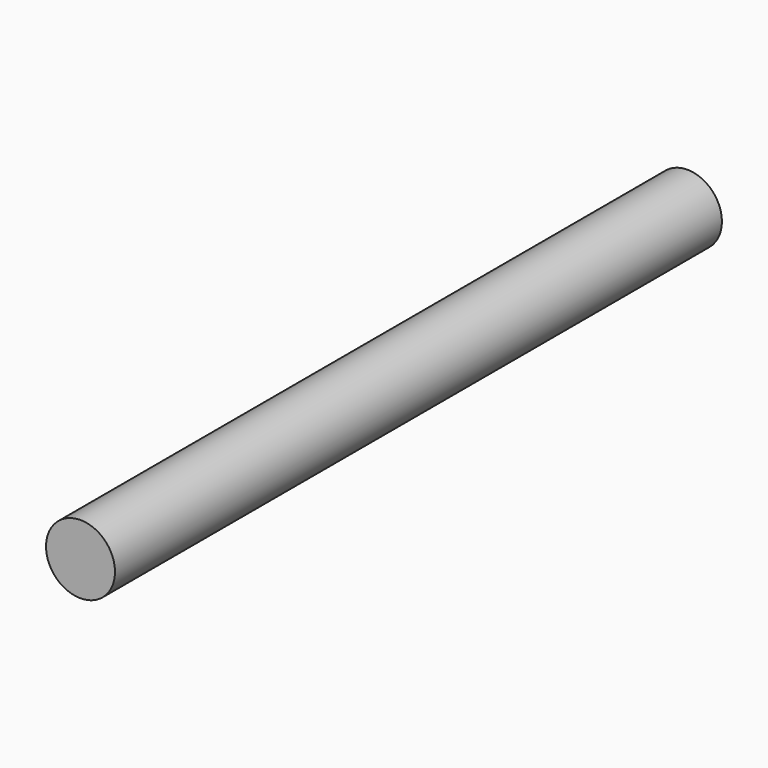
from build123d import *

# Parameters (mm, degrees)
F0_R     = 12.7
F0_R_2   = 6.35
F1_DEPTH = 12.7
F2_DEPTH = 279.4
F5_DEPTH = 25.4
F7_DEPTH = 25.4


with BuildPart() as f1:
    # F0 (on Front) → F1 (new body)
    with BuildSketch(Plane.XZ):
        Circle(F0_R)
        Circle(F0_R_2, mode=Mode.SUBTRACT)
        Circle(F0_R_2)
    extrude(amount=-F1_DEPTH)

    # F0 (on Front) → F2 (join)
    with BuildSketch(Plane.XZ):
        Circle(F0_R)
        Circle(F0_R_2, mode=Mode.SUBTRACT)
    extrude(amount=-F2_DEPTH)

    # F4 (on Right) → F5 (cut)
    with BuildSketch(Plane.YZ):
        with BuildLine():
            ThreePointArc((18.25625, 0), (19.05, -0.79375), (19.84375, 0))
            ThreePointArc((19.84375, 0), (19.05, 0.79375), (18.25625, 0))
        make_face()
    extrude(amount=-F5_DEPTH, mode=Mode.SUBTRACT)

    # F6 (on Right) → F7 (cut)
    with BuildSketch(Plane.YZ):
        with BuildLine():
            ThreePointArc((248.44375, 0), (247.65, 0.79375), (246.85625, 0))
            Line((246.85625, 0), (247.65, 0))
            Line((247.65, 0), (248.44375, 0))
        make_face()
        with BuildLine():
            Line((247.65, 0), (246.85625, 0))
            ThreePointArc((246.85625, 0), (247.65, -0.79375), (248.44375, 0))
            Line((248.44375, 0), (247.65, 0))
        make_face()
    extrude(amount=-F7_DEPTH, mode=Mode.SUBTRACT)


solid = f1.part
